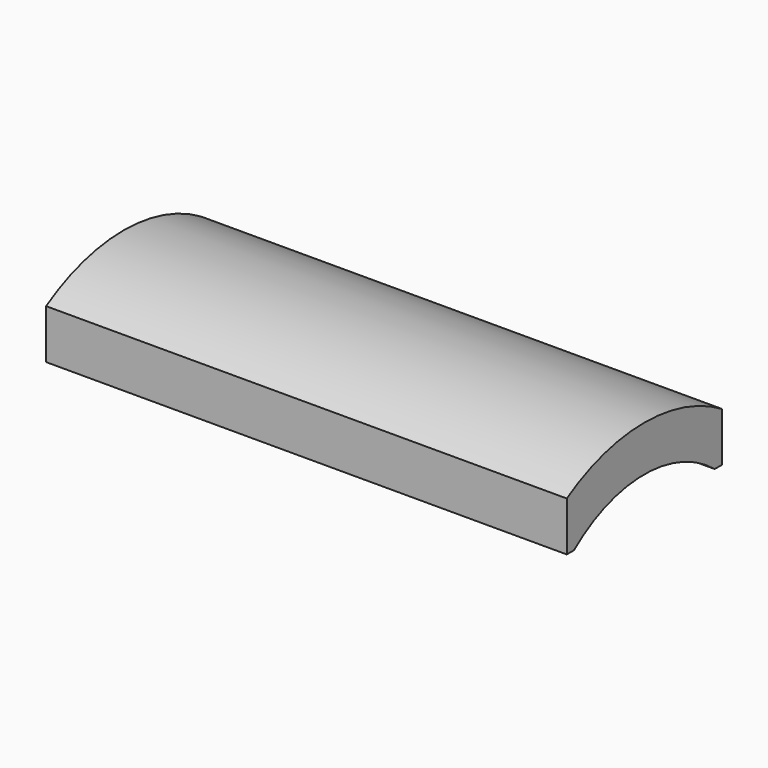
from build123d import *

# Parameters (mm, degrees)
F1_DEPTH = 80


with BuildPart() as f1:
    # F0 (on Right) → F1 (new body)
    with BuildSketch(Plane.YZ):
        with BuildLine():
            Line((14.9, 16.724855), (14.9, 24.294855))
            ThreePointArc((14.9, 24.294855), (0, 28.5), (-14.9, 24.294855))
            Line((-14.9, 24.294855), (-14.9, 16.724855))
            Line((-14.9, 16.724855), (-13.510337, 16.724855))
            ThreePointArc((-13.510337, 16.724855), (0, 21.5), (13.510337, 16.724855))
            Line((13.510337, 16.724855), (14.9, 16.724855))
        make_face()
    extrude(amount=F1_DEPTH)


solid = f1.part
